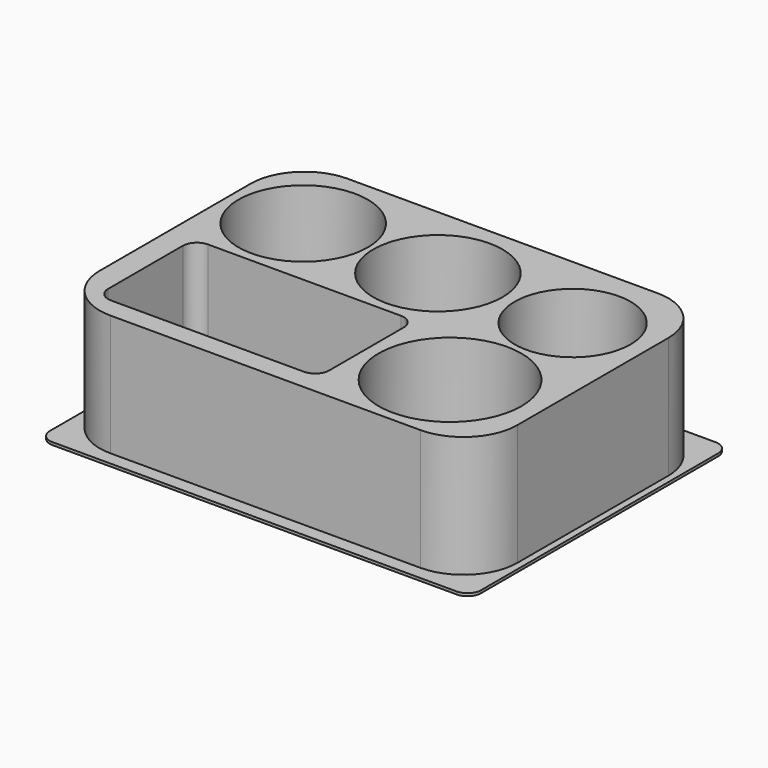
from build123d import *

# Parameters (mm, degrees)
F0_W     = 155
F0_H     = 110
F0_W_2   = 82
F0_H_2   = 45
F0_R     = 26.5
F0_R_2   = 24
F0_R_3   = 21.5
F1_DEPTH = 45
F2_W     = 160
F2_H     = 120
F2_W_2   = 155
F2_H_2   = 110
F3_DEPTH = 1
F4_R     = 5
F5_R     = 20
F6_R     = 5.2


with BuildPart() as f1:
    # F0 (on Top) → F1 (new body)
    with BuildSketch(Plane.XY):
        Rectangle(F0_W, F0_H)
        with Locations((-27.5, -25)):
            Rectangle(F0_W_2, F0_H_2, mode=Mode.SUBTRACT)
        with Locations((44.5, -25)):
            Circle(F0_R, mode=Mode.SUBTRACT)
        with Locations((-50, 25)):
            Circle(F0_R_2, mode=Mode.SUBTRACT)
        with Locations((0, 25)):
            Circle(F0_R_2, mode=Mode.SUBTRACT)
        with Locations((50, 25)):
            Circle(F0_R_3, mode=Mode.SUBTRACT)
    extrude(amount=F1_DEPTH)

    # F2 (on face) + F0 (on Top) → F3 (join)
    with BuildSketch(Plane.XY):
        Rectangle(F2_W, F2_H)
        Rectangle(F2_W_2, F2_H_2, mode=Mode.SUBTRACT)
    with BuildSketch(Plane.XY):
        Rectangle(F0_W, F0_H)
        with Locations((-27.5, -25)):
            Rectangle(F0_W_2, F0_H_2, mode=Mode.SUBTRACT)
        with Locations((44.5, -25)):
            Circle(F0_R, mode=Mode.SUBTRACT)
        with Locations((-50, 25)):
            Circle(F0_R_2, mode=Mode.SUBTRACT)
        with Locations((0, 25)):
            Circle(F0_R_2, mode=Mode.SUBTRACT)
        with Locations((50, 25)):
            Circle(F0_R_3, mode=Mode.SUBTRACT)
        with Locations((-27.5, -25)):
            Rectangle(F0_W_2, F0_H_2)
        with Locations((44.5, -25)):
            Circle(F0_R)
        with Locations((0, 25)):
            Circle(F0_R_2)
        with Locations((-50, 25)):
            Circle(F0_R_2)
        with Locations((50, 25)):
            Circle(F0_R_3)
    extrude(amount=-F3_DEPTH)

    # F4
    f4_edges = [f1.edges().sort_by_distance(p)[0] for p in [
        (-80, -60, -0.5),
        (-80, 60, -0.5),
        (80, 60, -0.5),
        (80, -60, -0.5),
    ]]
    fillet(f4_edges, radius=F4_R)

    # F5
    f5_edges = [f1.edges().sort_by_distance(p)[0] for p in [
        (77.5, -55, 22.5),
        (-77.5, -55, 22.5),
        (-77.5, 55, 22.5),
        (77.5, 55, 22.5),
    ]]
    fillet(f5_edges, radius=F5_R)

    # F6
    f6_edges = [f1.edges().sort_by_distance(p)[0] for p in [
        (-68.5, -47.5, 22.5),
        (-68.5, -2.5, 22.5),
        (13.5, -2.5, 22.5),
        (13.5, -47.5, 22.5),
    ]]
    fillet(f6_edges, radius=F6_R)


solid = f1.part
